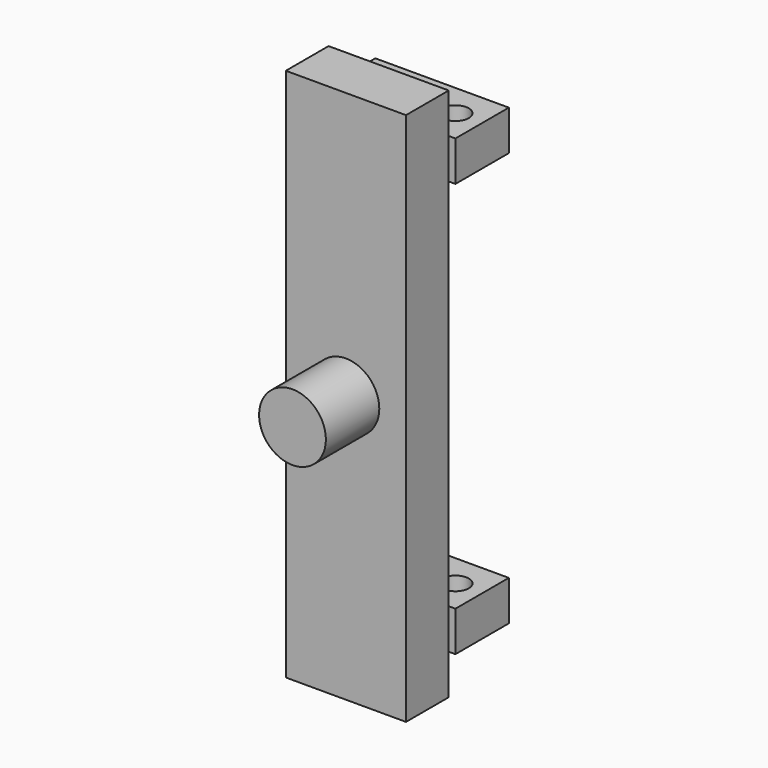
from build123d import *

# Parameters (mm, degrees)
F0_R     = 12.5
F1_DEPTH = 45
F3_W     = 45
F3_H     = 200
F4_DEPTH = 20
F6_W     = 50
F6_H     = 15
F7_DEPTH = 25
F8_R     = 5
F9_DEPTH = 185.001


with BuildPart() as f1:
    # F0 (on Front) → F1 (new body)
    with BuildSketch(Plane.XZ):
        Circle(F0_R)
    extrude(amount=F1_DEPTH)

    # F3 (on offset) → F4 (join)
    with BuildSketch(Plane.XZ.offset(20)):
        Rectangle(F3_W, F3_H)
    extrude(amount=-F4_DEPTH)

    # F6 (on offset) → F7 (join)
    with BuildSketch(Plane.XZ.offset(-25)):
        with Locations((0, 77.5)):
            Rectangle(F6_W, F6_H)
        with Locations((0, -77.5)):
            Rectangle(F6_W, F6_H)
    extrude(amount=F7_DEPTH)

    # F8 (on face) → F9 (cut, through all)
    with BuildSketch(Plane.XY.offset(85)):
        with Locations((15, 12.5)):
            Circle(F8_R)
        with Locations((-15, 12.5)):
            Circle(F8_R)
    extrude(amount=-F9_DEPTH, mode=Mode.SUBTRACT)


solid = f1.part
